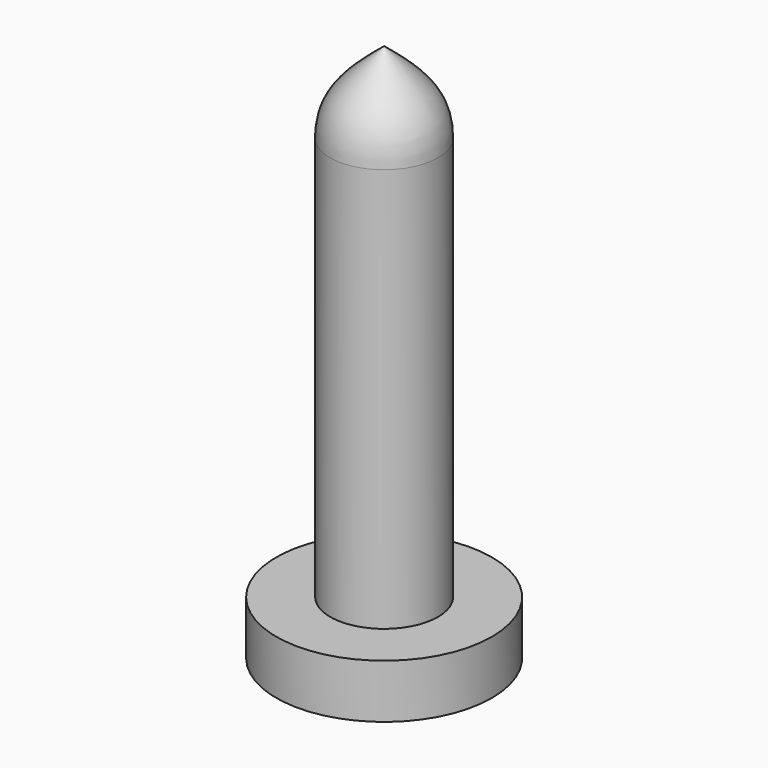
from build123d import *

# Parameters (mm, degrees)
F0_R     = 4
F0_R_2   = 2
F1_DEPTH = 2


with BuildPart() as f1:
    # F0 (on Top) → F1 (new body)
    with BuildSketch(Plane.XY):
        Circle(F0_R)
        Circle(F0_R_2, mode=Mode.SUBTRACT)
        Circle(F0_R_2)
    extrude(amount=F1_DEPTH)

    # F2 (on Front) → F3 (revolve)
    with BuildSketch(Plane.XZ):
        with BuildLine():
            add(Edge.make_bspline(
                [(0, 20), (1.435633, 18.827908), (1.994768, 18.225761), (2, 17)],
                knots=[0, 0, 0, 0, 3.605551, 3.605551, 3.605551, 3.605551], degree=3))
            Line((0, 20), (2, 17))
        make_face()
        Polygon((0, 20), (0, 0), (2, 0), (2, 17), align=None)
    revolve(axis=Axis((0, 0, 10), (0, 0, -1)))


solid = f1.part
